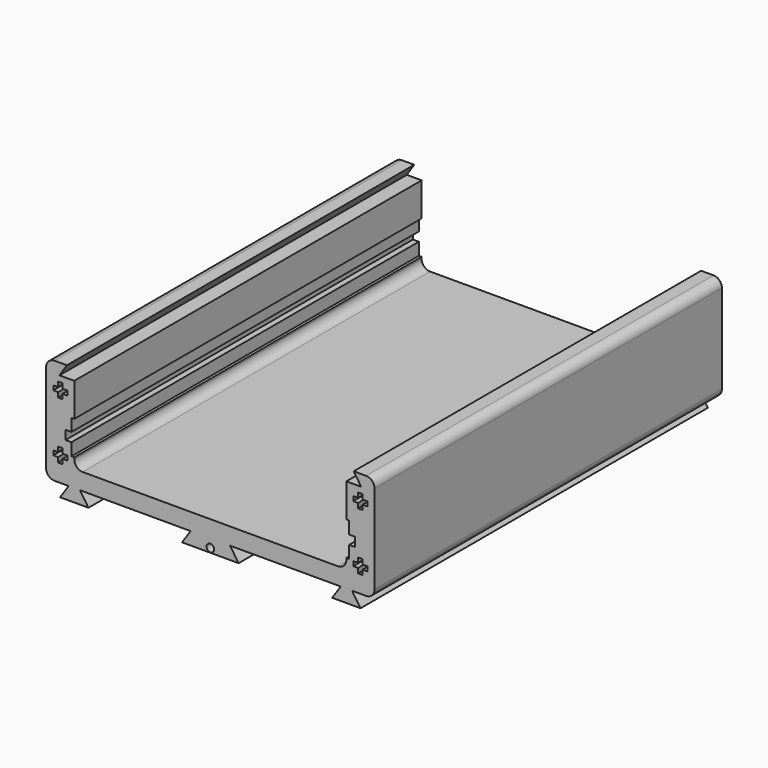
from build123d import *

# Parameters (mm, degrees)
F1_DEPTH = 154
F3_D     = 2.7
F3_DEPTH = 12
F3_TIP   = 0.8111618357
F4_W     = 154
F4_H     = 12
F5_DEPTH = 1
F6_W     = 154
F6_H     = 12
F7_DEPTH = 1


with BuildPart() as f1:
    # F0 (on Front) → F1 (new body)
    with BuildSketch(Plane.XZ):
        with BuildLine():
            Line((-10.0352883258, -17.0069661875), (0, -17.0069661875))
            Line((0, -17.0069661875), (10.0352883258, -17.0069661875))
            Line((10.0352883258, -17.0069661875), (7, -12.5069661875))
            Line((7, -12.5069661875), (46.25, -12.5069661875))
            Line((46.25, -12.5069661875), (43.2147116742, -17.0069661875))
            Line((43.2147116742, -17.0069661875), (53.2852883258, -17.0069661875))
            Line((53.2852883258, -17.0069661875), (50.25, -12.5069661875))
            Line((50.25, -12.5069661875), (55.25, -12.5069661875))
            ThreePointArc((55.25, -12.5069661875), (57.3713203436, -11.6282865311), (58.25, -9.5069661875))
            Line((58.25, -9.5069661875), (58.25, 21.9930338125))
            ThreePointArc((58.25, 21.9930338125), (57.3713203436, 24.114354156), (55.25, 24.9930338125))
            Line((55.25, 24.9930338125), (50.8726710718, 24.9930338125))
            Line((50.8726710718, 24.9930338125), (53.5, 20.9930338125))
            Line((53.5, 20.9930338125), (48.25, 20.9930338125))
            Line((48.25, 20.9930338125), (48.25, 4.6930338125))
            Line((48.25, 4.6930338125), (51.35, 4.6930338125))
            Line((51.35, 4.6930338125), (51.35, 1.4930338125))
            Line((51.35, 1.4930338125), (48.25, 1.4930338125))
            Line((48.25, 1.4930338125), (48.25, -3.5069661875))
            ThreePointArc((48.25, -3.5069661875), (47.3713203436, -5.6282865311), (45.25, -6.5069661875))
            Line((45.25, -6.5069661875), (0, -6.5069661875))
            Line((0, -6.5069661875), (-45.25, -6.5069661875))
            ThreePointArc((-45.25, -6.5069661875), (-47.3713203436, -5.6282865311), (-48.25, -3.5069661875))
            Line((-48.25, -3.5069661875), (-48.25, 1.4930338125))
            Line((-48.25, 1.4930338125), (-51.35, 1.4930338125))
            Line((-51.35, 1.4930338125), (-51.35, 4.6930338125))
            Line((-51.35, 4.6930338125), (-48.25, 4.6930338125))
            Line((-48.25, 4.6930338125), (-48.25, 20.9930338125))
            Line((-48.25, 20.9930338125), (-53.5, 20.9930338125))
            Line((-53.5, 20.9930338125), (-50.8726710718, 24.9930338125))
            Line((-50.8726710718, 24.9930338125), (-55.25, 24.9930338125))
            ThreePointArc((-55.25, 24.9930338125), (-57.3713203436, 24.114354156), (-58.25, 21.9930338125))
            Line((-58.25, 21.9930338125), (-58.25, -9.5069661875))
            ThreePointArc((-58.25, -9.5069661875), (-57.3713203436, -11.6282865311), (-55.25, -12.5069661875))
            Line((-55.25, -12.5069661875), (-50.25, -12.5069661875))
            Line((-50.25, -12.5069661875), (-53.2852883258, -17.0069661875))
            Line((-53.2852883258, -17.0069661875), (-43.2147116742, -17.0069661875))
            Line((-43.2147116742, -17.0069661875), (-46.25, -12.5069661875))
            Line((-46.25, -12.5069661875), (-7, -12.5069661875))
            Line((-7, -12.5069661875), (-10.0352883258, -17.0069661875))
        make_face()
        Polygon((-54, -3.1069661875), (-54, -1.4069661875), (-52.4, -1.4069661875), (-52.4, -3.1069661875), (-50.7, -3.1069661875), (-50.7, -4.7069661875), (-52.4, -4.7069661875), (-52.4, -6.4069661875), (-54, -6.4069661875), (-54, -4.7069661875), (-55.7, -4.7069661875), (-55.7, -3.1069661875), align=None, mode=Mode.SUBTRACT)
        Polygon((52.4, -1.4069661875), (54, -1.4069661875), (54, -3.1069661875), (55.7, -3.1069661875), (55.7, -4.7069661875), (54, -4.7069661875), (54, -6.4069661875), (52.4, -6.4069661875), (52.4, -4.7069661875), (50.7, -4.7069661875), (50.7, -3.1069661875), (52.4, -3.1069661875), align=None, mode=Mode.SUBTRACT)
        Polygon((-55.7, 15.5930338125), (-55.7, 17.1930338125), (-54, 17.1930338125), (-54, 18.8930338125), (-52.4, 18.8930338125), (-52.4, 17.1930338125), (-50.7, 17.1930338125), (-50.7, 15.5930338125), (-52.4, 15.5930338125), (-52.4, 13.8930338125), (-54, 13.8930338125), (-54, 15.5930338125), align=None, mode=Mode.SUBTRACT)
        Polygon((54, 18.8930338125), (54, 17.1930338125), (55.7, 17.1930338125), (55.7, 15.5930338125), (54, 15.5930338125), (54, 13.8930338125), (52.4, 13.8930338125), (52.4, 15.5930338125), (50.7, 15.5930338125), (50.7, 17.1930338125), (52.4, 17.1930338125), (52.4, 18.8930338125), align=None, mode=Mode.SUBTRACT)
    extrude(amount=-F1_DEPTH)

    # F3
    with Locations(Plane.XZ):
        with Locations((0, -15.5069661875)):
            Hole(F3_D / 2, depth=F3_DEPTH)
            with Locations((0, 0, -(F3_DEPTH + F3_TIP / 2))):  # 118° drill point
                Cone(0, F3_D / 2, F3_TIP, mode=Mode.SUBTRACT)

    # F4 (on face) → F5 (cut)
    with BuildSketch(Plane.YZ.offset(-48.25)):
        with Locations((77, 3.0930338125)):
            Rectangle(F4_W, F4_H)
    extrude(amount=-F5_DEPTH, mode=Mode.SUBTRACT)

    # F6 (on face) → F7 (cut)
    with BuildSketch(Plane(origin=(48.25, 0, 0), x_dir=(0, -1, 0), z_dir=(-1, 0, 0))):
        with Locations((-77, 3.0930338125)):
            Rectangle(F6_W, F6_H)
    extrude(amount=-F7_DEPTH, mode=Mode.SUBTRACT)


solid = f1.part
